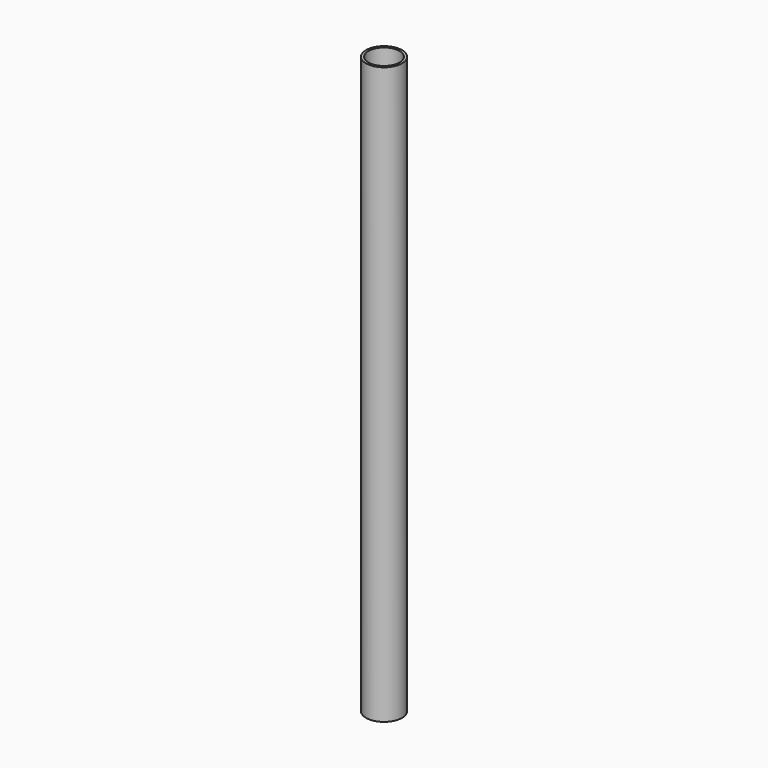
from build123d import *

# Parameters (mm, degrees)
F0_R     = 19.05
F1_DEPTH = 304.8
F2_T     = -2.54


with BuildPart() as f1:
    # F0 (on Top) → F1 (new body, symmetric)
    with BuildSketch(Plane.XY):
        Circle(F0_R)
    extrude(amount=F1_DEPTH, both=True)

    # F2
    f2_openings = [f1.faces().sort_by_distance(p)[0] for p in [
        (0, 0, 304.8),
        (0, 0, -304.8),
    ]]
    offset(amount=F2_T, openings=f2_openings)


solid = f1.part
